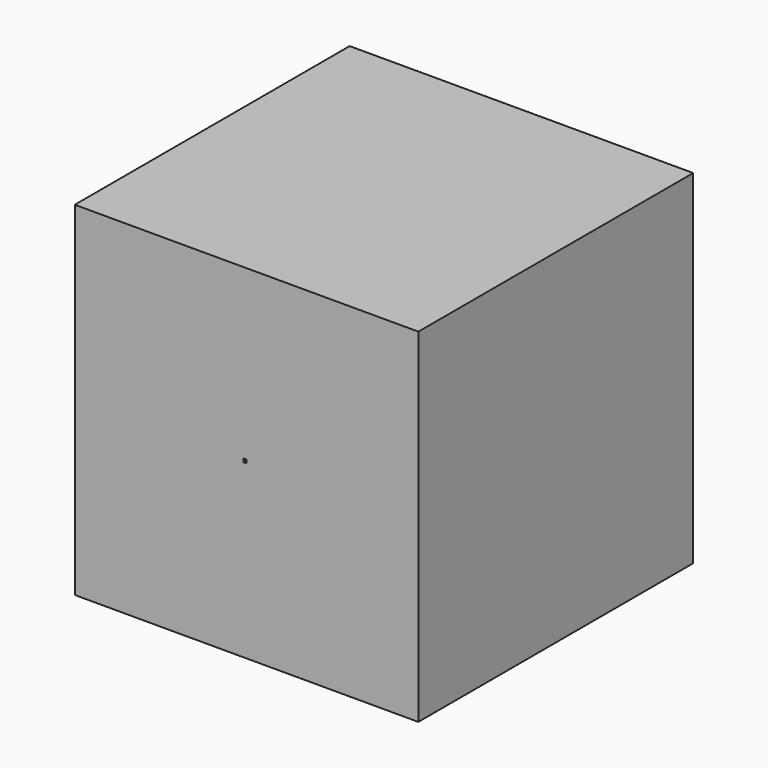
from build123d import *

# Parameters (mm, degrees)
F0_W     = 76.2
F0_H     = 76.2
F0_W_2   = 0.719650794
F0_H_2   = 0.7486300139
F1_DEPTH = 38.1
F2_D     = 16.66748
F2_DEPTH = 58.42
F2_TIP   = 5.0074161752


with BuildPart() as f1:
    # F0 (on Front) → F1 (new body, symmetric)
    with BuildSketch(Plane.XZ):
        with Locations((-1.3895237146, 8.3112677576)):
            Rectangle(F0_W, F0_H)
        with Locations((-1.7493491116, 8.6855827646)):
            Rectangle(F0_W_2, F0_H_2, mode=Mode.SUBTRACT)
    extrude(amount=F1_DEPTH, both=True)

    # F2 (one way)
    with BuildSketch(Plane.XZ):
        with Locations((-1.7493491116, 8.6855827646)):
            Circle(F2_D / 2)
    extrude(amount=-F2_DEPTH, mode=Mode.SUBTRACT)
    with Locations(Plane.XZ):
        with Locations((-1.7493491116, 8.6855827646)):
            with Locations((0, 0, -(F2_DEPTH + F2_TIP / 2))):  # 118° drill point
                Cone(0, F2_D / 2, F2_TIP, mode=Mode.SUBTRACT)


solid = f1.part
